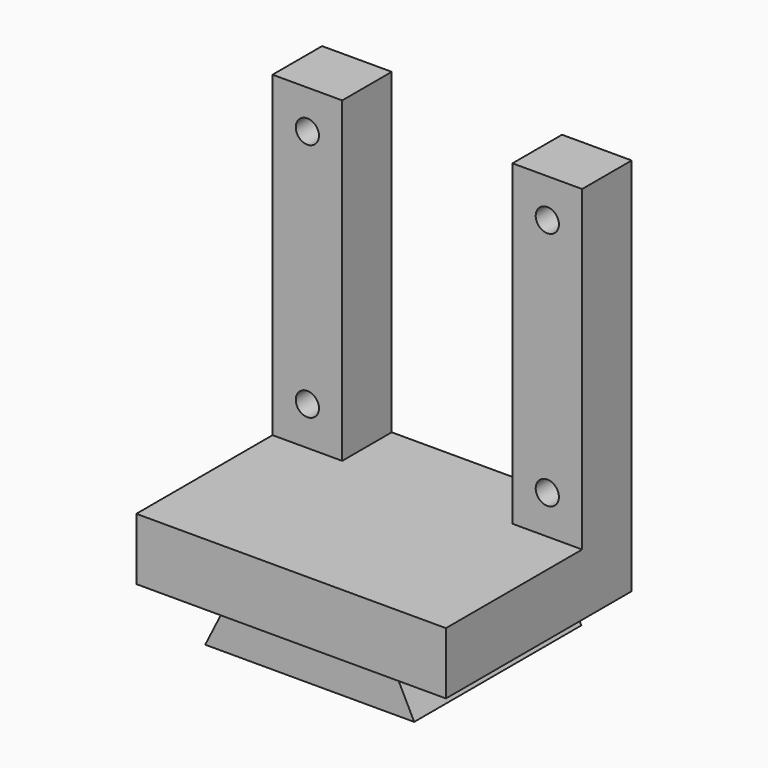
from build123d import *

# Parameters (mm, degrees)
F1_DEPTH = 27
F2_R     = 1.5
F3_DEPTH = 8
F4_W     = 40
F4_H     = 8
F5_DEPTH = 30


with BuildPart() as f1:
    # F0 (on Front) → F1 (new body)
    with BuildSketch(Plane.XZ):
        Polygon((-10.5, 6), (-13.5, 0), (13.5, 0), (10.5, 6), align=None)
    extrude(amount=F1_DEPTH)

    # F2 (on Front) → F3 (join)
    with BuildSketch(Plane.XZ):
        Polygon((-10.5, 6), (10.5, 6), (20, 6), (20, 55), (11, 55), (11, 14), (-11, 14), (-11, 55), (-20, 55), (-20, 6), align=None)
        with Locations((-15.5, 19)):
            Circle(F2_R, mode=Mode.SUBTRACT)
        with Locations((15.5, 19)):
            Circle(F2_R, mode=Mode.SUBTRACT)
        with Locations((-15.5, 50)):
            Circle(F2_R, mode=Mode.SUBTRACT)
        with Locations((15.5, 50)):
            Circle(F2_R, mode=Mode.SUBTRACT)
    extrude(amount=F3_DEPTH)

    # F4 (on Front) → F5 (join)
    with BuildSketch(Plane.XZ):
        with Locations((0, 10)):
            Rectangle(F4_W, F4_H)
    extrude(amount=F5_DEPTH)


solid = f1.part
